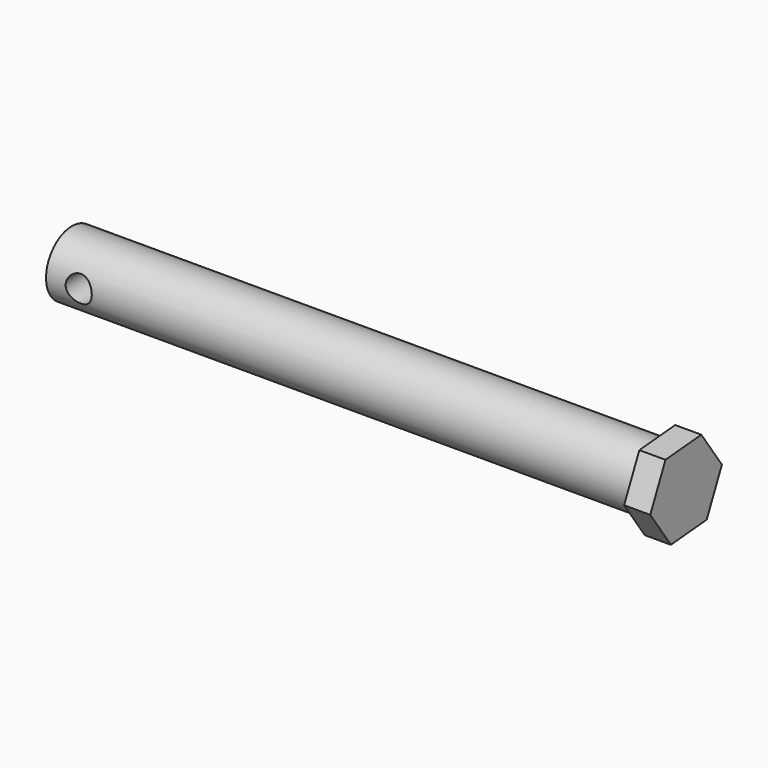
from build123d import *

# Parameters (mm, degrees)
F0_R     = 3.1496
F1_DEPTH = 59.69
F2_R     = 1.27
F3_DEPTH = 17.272
F4_R     = 3.1496
F5_DEPTH = 2.54
F6_DEPTH = 14.2494


with BuildPart() as f1:
    # F0 (on Right) → F1 (new body)
    with BuildSketch(Plane.YZ):
        Circle(F0_R)
    extrude(amount=F1_DEPTH)

    # F2 (on Front) → F3 (cut)
    with BuildSketch(Plane.XZ):
        with Locations((3.175, 0)):
            Circle(F2_R)
    extrude(amount=F3_DEPTH, mode=Mode.SUBTRACT)

    # F4 (on face) → F5 (join)
    with BuildSketch(Plane.YZ.offset(59.69)):
        Polygon((2.503989, -3.581569), (4.353724, 0.377734), (1.849735, 3.959303), (-2.503989, 3.581569), (-4.353724, -0.377734), (-1.849735, -3.959303), align=None)
        Circle(F4_R, mode=Mode.SUBTRACT)
    extrude(amount=-F5_DEPTH)

    # F2 (on Front) → F6 (cut)
    with BuildSketch(Plane.XZ):
        with Locations((3.175, 0)):
            Circle(F2_R)
    extrude(amount=-F6_DEPTH, mode=Mode.SUBTRACT)


solid = f1.part
